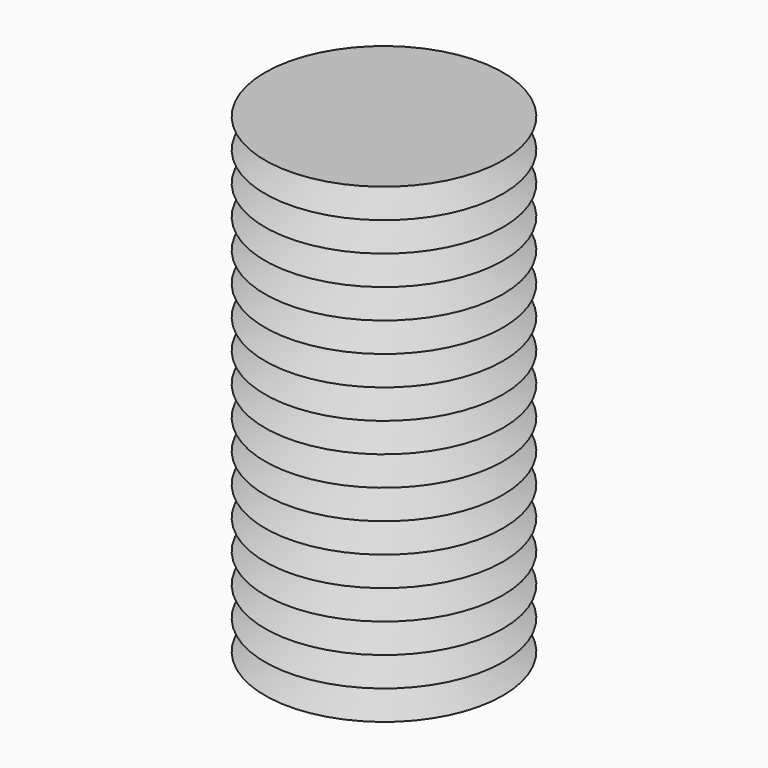
from build123d import *

# Parameters (mm, degrees)
F7_SCALE = 10


with BuildPart() as f1:
    # F0 (on Front) → F1 (revolve)
    with BuildSketch(Plane.XZ):
        Polygon((-0.1048138583, 0), (0, 0), (0, 0.0129709415), (-0.0702744146, 0.0129709415), align=None)
    revolve(axis=Axis((0, 0, 0.0064854707), (0, 0, -1)))

    # F2: F1 across face


with BuildPart() as f1_1:
    add(f1.part)
    add(f1.part.mirror(Plane.XY.offset(0.0129709415)))

    # F3: F1 across face


with BuildPart() as f1_2:
    add(f1_1.part)
    add(f1_1.part.mirror(Plane.XY.offset(0.025941883)))

    # F4: F1 across face


with BuildPart() as f1_3:
    add(f1_2.part)
    add(f1_2.part.mirror(Plane.XY.offset(0.051883766)))

    # F5: F1 across face


with BuildPart() as f1_4:
    add(f1_3.part)
    add(f1_3.part.mirror(Plane.XY.offset(0.103767532)))

    # F6: F1 across face


with BuildPart() as f1_5:
    add(f1_4.part)
    add(f1_4.part.mirror(Plane.XY.offset(0.207535064)))


with BuildPart() as f1_6:
    # F7: moved
    add(f1_5.part.scale(F7_SCALE))


solid = f1_6.part
